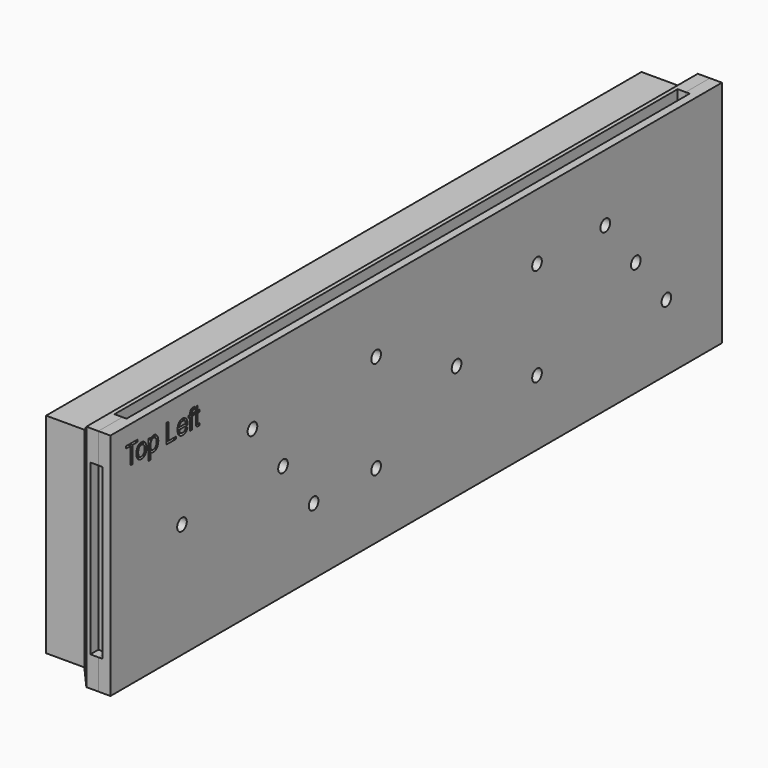
from build123d import *

# Parameters (mm, degrees)
SKETCH_W        = 185
SKETCH_H        = 52
PAD_DEPTH       = 3
SHAPEBINDER_R   = 11.8
SHAPEBINDER_R_2 = 1.55
SHAPEBINDER_W   = 12.9
SHAPEBINDER_H   = 19.4
SHAPEBINDER_R_3 = 1.6
POCKET_DEPTH    = 5
SKETCH002_W     = 190
SKETCH002_H     = 57
SKETCH002_R     = 1.5
PAD001_DEPTH    = 2
PAD002_DEPTH    = 2
POCKET001_DEPTH = 4.5
SKETCH004_W     = 190
SKETCH004_H     = 57
SKETCH004_R     = 11.8
SKETCH004_W_2   = 12.9
SKETCH004_H_2   = 19.4
PAD003_DEPTH    = 13
PAD004_DEPTH    = 15
POCKET002_DEPTH = 1.7
SKETCH005_W     = 195
SKETCH005_H     = 62
SKETCH005_W_2   = 185
SKETCH005_H_2   = 52
POCKET003_DEPTH = 12
CHAMFER_SIZE    = 2.49


with BuildPart() as body:
    # Sketch → Pad (new body)
    with BuildSketch(Plane.YZ):
        with Locations((0, 23)):
            Rectangle(SKETCH_W, SKETCH_H)
    extrude(amount=PAD_DEPTH)

    # ShapeBinder → Pocket (cut)
    with BuildSketch(Plane(origin=(0, 0.410224, 23), x_dir=(0, -1, 0), z_dir=(1, 0, 0))):
        with Locations((-67.839494, 0)):
            Circle(SHAPEBINDER_R)
        with Locations((-58.339494, -12)):
            Circle(SHAPEBINDER_R_2)
        with Locations((-77.339494, 12)):
            Circle(SHAPEBINDER_R_2)
        with BuildLine():
            ThreePointArc((-24.986195, 14.35), (-39.336195, 0), (-24.986195, -14.35))
            Line((-24.986195, -14.35), (0.713805, -14.35))
            ThreePointArc((0.713805, -14.35), (15.063805, 0), (0.713805, 14.35))
            Line((0.713805, 14.35), (-24.986195, 14.35))
        make_face()
        with Locations((41.785392, 0)):
            Circle(SHAPEBINDER_R)
        with Locations((32.285392, 12)):
            Circle(SHAPEBINDER_R_2)
        with Locations((51.285392, -12)):
            Circle(SHAPEBINDER_R_2)
        with Locations((73.189494, 0)):
            Rectangle(SHAPEBINDER_W, SHAPEBINDER_H)
        with Locations((12.863805, -12.2)):
            Circle(SHAPEBINDER_R_3)
        with Locations((12.863805, 12.2)):
            Circle(SHAPEBINDER_R_3)
        with Locations((-37.136195, 12.2)):
            Circle(SHAPEBINDER_R_3)
        with Locations((-37.136195, -12.2)):
            Circle(SHAPEBINDER_R_3)
    extrude(amount=POCKET_DEPTH, mode=Mode.SUBTRACT)


with BuildPart() as drillplacer:
    # Sketch002 → Pad001 (new body)
    with BuildSketch(Plane.YZ):
        with Locations((0, 23)):
            Rectangle(SKETCH002_W, SKETCH002_H)
        with Locations((58.749718, 35)):
            Circle(SKETCH002_R, mode=Mode.SUBTRACT)
        with Locations((68.249718, 23)):
            Circle(SKETCH002_R, mode=Mode.SUBTRACT)
        with Locations((77.749718, 11)):
            Circle(SKETCH002_R, mode=Mode.SUBTRACT)
        with Locations((37.546419, 10.8)):
            Circle(SKETCH002_R, mode=Mode.SUBTRACT)
        with Locations((37.546419, 35.2)):
            Circle(SKETCH002_R, mode=Mode.SUBTRACT)
        with Locations((-12.453581, 35.2)):
            Circle(SKETCH002_R, mode=Mode.SUBTRACT)
        with Locations((-12.453581, 10.8)):
            Circle(SKETCH002_R, mode=Mode.SUBTRACT)
        with Locations((-31.875168, 11)):
            Circle(SKETCH002_R, mode=Mode.SUBTRACT)
        with Locations((-50.875168, 35)):
            Circle(SKETCH002_R, mode=Mode.SUBTRACT)
        with Locations((-41.375168, 23)):
            Circle(SKETCH002_R, mode=Mode.SUBTRACT)
        with Locations((-72.779269, 23)):
            Circle(SKETCH002_R, mode=Mode.SUBTRACT)
        with Locations((12.546419, 23)):
            Circle(SKETCH002_R, mode=Mode.SUBTRACT)
    extrude(amount=PAD001_DEPTH)

    # Sketch003 → Pad002 (join)
    with BuildSketch(Plane.YZ):
        Polygon((95, 51.5), (95, 44), (92.5, 44), (92.5, 49), (87.5, 49), (87.5, 51.5), align=None)
        Polygon((-95, 51.5), (-87.5, 51.5), (-87.5, 49), (-92.5, 49), (-92.5, 44), (-95, 44), align=None)
        Polygon((-95, -5.5), (-95, 2), (-92.5, 2), (-92.5, -3), (-87.5, -3), (-87.5, -5.5), align=None)
        Polygon((95, -5.5), (87.5, -5.5), (87.5, -3), (92.5, -3), (92.5, 2), (95, 2), align=None)
    extrude(amount=-PAD002_DEPTH)

    # ShapeBinder002 → Pocket001 (cut)
    with BuildSketch(Plane(origin=(5.7, -88.427665, 45.650822), x_dir=(0, -1, 0), z_dir=(1, 0, 0))):
        Polygon((0.271762, -1.021492), (0.271762, 3.190822), (-0.271762, 3.190822), (-0.271762, -1.021492), (-1.766454, -1.021492), (-1.766454, -1.565017), (1.766454, -1.565017), (1.766454, -1.021492), align=None)
        with BuildLine():
            add(Edge.make_bspline(
                [(-1.494692, 1.356427), (-1.494692, 0.381905), (-2.010616, -0.08731)],
                knots=[0, 0, 0, 1, 1, 1], degree=2))
            add(Edge.make_bspline(
                [(-1.92569, 2.719484), (-1.494692, 2.246024), (-1.494692, 1.356427)],
                knots=[0, 0, 0, 1, 1, 1], degree=2))
            add(Edge.make_bspline(
                [(-3.059448, 3.190822), (-2.358811, 3.190822), (-1.92569, 2.719484)],
                knots=[0, 0, 0, 1, 1, 1], degree=2))
            add(Edge.make_bspline(
                [(-3.864119, 2.976385), (-3.494692, 3.190822), (-3.059448, 3.190822)],
                knots=[0, 0, 0, 1, 1, 1], degree=2))
            add(Edge.make_bspline(
                [(-4.426752, 2.373412), (-4.233546, 2.761947), (-3.864119, 2.976385)],
                knots=[0, 0, 0, 1, 1, 1], degree=2))
            add(Edge.make_bspline(
                [(-4.619958, 1.307595), (-4.619958, 1.984877), (-4.426752, 2.373412)],
                knots=[0, 0, 0, 1, 1, 1], degree=2))
            add(Edge.make_bspline(
                [(-4.18259, -0.002384), (-4.619958, 0.471077), (-4.619958, 1.307595)],
                knots=[0, 0, 0, 1, 1, 1], degree=2))
            add(Edge.make_bspline(
                [(-3.059448, -0.477968), (-3.747346, -0.477968), (-4.18259, -0.002384)],
                knots=[0, 0, 0, 1, 1, 1], degree=2))
            add(Edge.make_bspline(
                [(-2.010616, -0.08731), (-2.43949, -0.477968), (-3.059448, -0.477968)],
                knots=[0, 0, 0, 1, 1, 1], degree=2))
        make_face()
        with BuildLine():
            add(Edge.make_bspline(
                [(-2.038217, 1.354304), (-2.038217, 2.001862), (-2.326964, 2.32458)],
                knots=[0, 0, 0, 1, 1, 1], degree=2))
            add(Edge.make_bspline(
                [(-2.326964, 0.386151), (-2.038217, 0.706746), (-2.038217, 1.354304)],
                knots=[0, 0, 0, 1, 1, 1], degree=2))
            add(Edge.make_bspline(
                [(-3.059448, 0.065557), (-2.617834, 0.065557), (-2.326964, 0.386151)],
                knots=[0, 0, 0, 1, 1, 1], degree=2))
            add(Edge.make_bspline(
                [(-3.783439, 0.388274), (-3.492569, 0.065557), (-3.059448, 0.065557)],
                knots=[0, 0, 0, 1, 1, 1], degree=2))
            add(Edge.make_bspline(
                [(-4.076433, 1.335196), (-4.076433, 0.710992), (-3.783439, 0.388274)],
                knots=[0, 0, 0, 1, 1, 1], degree=2))
            add(Edge.make_bspline(
                [(-3.785563, 2.32458), (-4.076433, 1.999739), (-4.076433, 1.335196)],
                knots=[0, 0, 0, 1, 1, 1], degree=2))
            add(Edge.make_bspline(
                [(-3.059448, 2.647298), (-3.496815, 2.647298), (-3.785563, 2.32458)],
                knots=[0, 0, 0, 1, 1, 1], degree=2))
            add(Edge.make_bspline(
                [(-2.326964, 2.32458), (-2.617834, 2.647298), (-3.059448, 2.647298)],
                knots=[0, 0, 0, 1, 1, 1], degree=2))
        make_face(mode=Mode.SUBTRACT)
        with BuildLine():
            Line((-5.299363, -0.342087), (-5.299363, 4.549633))
            Line((-5.299363, 4.549633), (-5.842887, 4.549633))
            Line((-5.842887, 4.549633), (-5.842887, 2.698253))
            add(Edge.make_bspline(
                [(-6.229299, 3.050695), (-5.993631, 2.910567), (-5.842887, 2.698253)],
                knots=[0, 0, 0, 1, 1, 1], degree=2))
            add(Edge.make_bspline(
                [(-6.762208, 3.190822), (-6.464968, 3.190822), (-6.229299, 3.050695)],
                knots=[0, 0, 0, 1, 1, 1], degree=2))
            add(Edge.make_bspline(
                [(-7.535032, 2.961523), (-7.167728, 3.190822), (-6.762208, 3.190822)],
                knots=[0, 0, 0, 1, 1, 1], degree=2))
            add(Edge.make_bspline(
                [(-8.095541, 2.301225), (-7.902335, 2.732223), (-7.535032, 2.961523)],
                knots=[0, 0, 0, 1, 1, 1], degree=2))
            add(Edge.make_bspline(
                [(-8.288747, 1.330949), (-8.288747, 1.868104), (-8.095541, 2.301225)],
                knots=[0, 0, 0, 1, 1, 1], degree=2))
            add(Edge.make_bspline(
                [(-8.116773, 0.407383), (-8.288747, 0.827765), (-8.288747, 1.330949)],
                knots=[0, 0, 0, 1, 1, 1], degree=2))
            add(Edge.make_bspline(
                [(-7.611465, -0.246545), (-7.946921, -0.015123), (-8.116773, 0.407383)],
                knots=[0, 0, 0, 1, 1, 1], degree=2))
            add(Edge.make_bspline(
                [(-6.836518, -0.477968), (-7.276008, -0.477968), (-7.611465, -0.246545)],
                knots=[0, 0, 0, 1, 1, 1], degree=2))
            add(Edge.make_bspline(
                [(-6.265393, -0.325102), (-6.501062, -0.477968), (-6.836518, -0.477968)],
                knots=[0, 0, 0, 1, 1, 1], degree=2))
            add(Edge.make_bspline(
                [(-5.842887, 0.131374), (-6.029724, -0.174358), (-6.265393, -0.325102)],
                knots=[0, 0, 0, 1, 1, 1], degree=2))
            Line((-5.842887, 0.131374), (-5.842887, -0.342087))
            Line((-5.842887, -0.342087), (-5.299363, -0.342087))
        make_face()
        with BuildLine():
            add(Edge.make_bspline(
                [(-5.842887, 1.386151), (-5.842887, 2.031586), (-6.116773, 2.339442)],
                knots=[0, 0, 0, 1, 1, 1], degree=2))
            add(Edge.make_bspline(
                [(-6.135881, 0.403136), (-5.842887, 0.740716), (-5.842887, 1.386151)],
                knots=[0, 0, 0, 1, 1, 1], degree=2))
            add(Edge.make_bspline(
                [(-6.808917, 0.065557), (-6.428875, 0.065557), (-6.135881, 0.403136)],
                knots=[0, 0, 0, 1, 1, 1], degree=2))
            add(Edge.make_bspline(
                [(-7.469214, 0.384028), (-7.193206, 0.065557), (-6.808917, 0.065557)],
                knots=[0, 0, 0, 1, 1, 1], degree=2))
            add(Edge.make_bspline(
                [(-7.745223, 1.339442), (-7.745223, 0.700376), (-7.469214, 0.384028)],
                knots=[0, 0, 0, 1, 1, 1], degree=2))
            add(Edge.make_bspline(
                [(-7.462845, 2.328826), (-7.745223, 2.008232), (-7.745223, 1.339442)],
                knots=[0, 0, 0, 1, 1, 1], degree=2))
            add(Edge.make_bspline(
                [(-6.783439, 2.647298), (-7.180467, 2.647298), (-7.462845, 2.328826)],
                knots=[0, 0, 0, 1, 1, 1], degree=2))
            add(Edge.make_bspline(
                [(-6.116773, 2.339442), (-6.392781, 2.647298), (-6.783439, 2.647298)],
                knots=[0, 0, 0, 1, 1, 1], degree=2))
        make_face(mode=Mode.SUBTRACT)
        Polygon((-10.870488, -1.565017), (-10.870488, 3.190822), (-13.723992, 3.190822), (-13.723992, 2.647298), (-11.414013, 2.647298), (-11.414013, -1.565017), align=None)
        with BuildLine():
            Line((-17.375796, 2.103773), (-16.842887, 1.967892))
            add(Edge.make_bspline(
                [(-16.467091, 2.485939), (-16.704883, 2.322457), (-16.842887, 1.967892)],
                knots=[0, 0, 0, 1, 1, 1], degree=2))
            add(Edge.make_bspline(
                [(-15.895966, 2.647298), (-16.231423, 2.647298), (-16.467091, 2.485939)],
                knots=[0, 0, 0, 1, 1, 1], degree=2))
            add(Edge.make_bspline(
                [(-15.144374, 2.367043), (-15.44586, 2.647298), (-15.895966, 2.647298)],
                knots=[0, 0, 0, 1, 1, 1], degree=2))
            add(Edge.make_bspline(
                [(-14.81104, 1.560249), (-14.845011, 2.086788), (-15.144374, 2.367043)],
                knots=[0, 0, 0, 1, 1, 1], degree=2))
            Line((-14.81104, 1.560249), (-17.390658, 1.560249))
            add(Edge.make_bspline(
                [(-17.392781, 1.396767), (-17.392781, 1.451969), (-17.390658, 1.560249)],
                knots=[0, 0, 0, 1, 1, 1], degree=2))
            add(Edge.make_bspline(
                [(-16.961783, 0.014601), (-17.392781, 0.505047), (-17.392781, 1.396767)],
                knots=[0, 0, 0, 1, 1, 1], degree=2))
            add(Edge.make_bspline(
                [(-15.85138, -0.477968), (-16.530786, -0.477968), (-16.961783, 0.014601)],
                knots=[0, 0, 0, 1, 1, 1], degree=2))
            add(Edge.make_bspline(
                [(-14.707006, 0.012478), (-15.14862, -0.477968), (-15.85138, -0.477968)],
                knots=[0, 0, 0, 1, 1, 1], degree=2))
            add(Edge.make_bspline(
                [(-14.267516, 1.386151), (-14.267516, 0.500801), (-14.707006, 0.012478)],
                knots=[0, 0, 0, 1, 1, 1], degree=2))
            add(Edge.make_bspline(
                [(-14.70276, 2.717361), (-14.267516, 2.241777), (-14.267516, 1.386151)],
                knots=[0, 0, 0, 1, 1, 1], degree=2))
            add(Edge.make_bspline(
                [(-15.883227, 3.190822), (-15.140127, 3.190822), (-14.70276, 2.717361)],
                knots=[0, 0, 0, 1, 1, 1], degree=2))
            add(Edge.make_bspline(
                [(-16.855626, 2.906321), (-16.475584, 3.190822), (-15.883227, 3.190822)],
                knots=[0, 0, 0, 1, 1, 1], degree=2))
            add(Edge.make_bspline(
                [(-17.375796, 2.103773), (-17.235669, 2.619697), (-16.855626, 2.906321)],
                knots=[0, 0, 0, 1, 1, 1], degree=2))
        make_face()
        with BuildLine():
            Line((-16.849257, 1.016724), (-14.81104, 1.016724))
            add(Edge.make_bspline(
                [(-15.131635, 0.32458), (-14.842887, 0.583603), (-14.81104, 1.016724)],
                knots=[0, 0, 0, 1, 1, 1], degree=2))
            add(Edge.make_bspline(
                [(-15.849257, 0.065557), (-15.422505, 0.065557), (-15.131635, 0.32458)],
                knots=[0, 0, 0, 1, 1, 1], degree=2))
            add(Edge.make_bspline(
                [(-16.615711, 0.390397), (-16.320594, 0.065557), (-15.849257, 0.065557)],
                knots=[0, 0, 0, 1, 1, 1], degree=2))
            add(Edge.make_bspline(
                [(-16.849257, 1.016724), (-16.808917, 0.598465), (-16.615711, 0.390397)],
                knots=[0, 0, 0, 1, 1, 1], degree=2))
        make_face(mode=Mode.SUBTRACT)
        with BuildLine():
            Line((-18.208068, 0.201438), (-18.208068, 3.190822))
            Line((-18.208068, 3.190822), (-18.751592, 3.190822))
            Line((-18.751592, 3.190822), (-18.751592, 0.201438))
            Line((-18.751592, 0.201438), (-19.430998, 0.201438))
            Line((-19.430998, 0.201438), (-19.430998, -0.342087))
            Line((-19.430998, -0.342087), (-18.751592, -0.342087))
            Line((-18.751592, -0.342087), (-18.751592, -0.594741))
            add(Edge.make_bspline(
                [(-18.859873, -0.930197), (-18.751592, -0.841025), (-18.751592, -0.594741)],
                knots=[0, 0, 0, 1, 1, 1], degree=2))
            add(Edge.make_bspline(
                [(-19.229299, -1.021492), (-18.968153, -1.021492), (-18.859873, -0.930197)],
                knots=[0, 0, 0, 1, 1, 1], degree=2))
            add(Edge.make_bspline(
                [(-19.566879, -0.996014), (-19.388535, -1.021492), (-19.229299, -1.021492)],
                knots=[0, 0, 0, 1, 1, 1], degree=2))
            Line((-19.566879, -0.996014), (-19.651805, -1.505569))
            add(Edge.make_bspline(
                [(-19.116773, -1.565017), (-19.358811, -1.565017), (-19.651805, -1.505569)],
                knots=[0, 0, 0, 1, 1, 1], degree=2))
            add(Edge.make_bspline(
                [(-18.543524, -1.439751), (-18.7431, -1.565017), (-19.116773, -1.565017)],
                knots=[0, 0, 0, 1, 1, 1], degree=2))
            add(Edge.make_bspline(
                [(-18.265393, -1.117034), (-18.343949, -1.316609), (-18.543524, -1.439751)],
                knots=[0, 0, 0, 1, 1, 1], degree=2))
            add(Edge.make_bspline(
                [(-18.208068, -0.664804), (-18.208068, -0.968414), (-18.265393, -1.117034)],
                knots=[0, 0, 0, 1, 1, 1], degree=2))
            Line((-18.208068, -0.664804), (-18.208068, -0.342087))
            Line((-18.208068, -0.342087), (-17.664544, -0.342087))
            Line((-17.664544, -0.342087), (-17.664544, 0.201438))
            Line((-17.664544, 0.201438), (-18.208068, 0.201438))
        make_face()
        with BuildLine():
            Line((-21.197452, 3.139867), (-21.061571, 2.632436))
            add(Edge.make_bspline(
                [(-20.823779, 2.647298), (-20.915074, 2.647298), (-21.061571, 2.632436)],
                knots=[0, 0, 0, 1, 1, 1], degree=2))
            add(Edge.make_bspline(
                [(-20.639066, 2.606958), (-20.704883, 2.647298), (-20.823779, 2.647298)],
                knots=[0, 0, 0, 1, 1, 1], degree=2))
            add(Edge.make_bspline(
                [(-20.545648, 2.494431), (-20.575372, 2.564495), (-20.639066, 2.606958)],
                knots=[0, 0, 0, 1, 1, 1], degree=2))
            add(Edge.make_bspline(
                [(-20.518047, 2.178083), (-20.518047, 2.424368), (-20.545648, 2.494431)],
                knots=[0, 0, 0, 1, 1, 1], degree=2))
            Line((-20.518047, 2.178083), (-20.518047, 0.201438))
            Line((-20.518047, 0.201438), (-21.061571, 0.201438))
            Line((-21.061571, 0.201438), (-21.061571, -0.342087))
            Line((-21.061571, -0.342087), (-20.518047, -0.342087))
            Line((-20.518047, -0.342087), (-20.518047, -1.524677))
            Line((-20.518047, -1.524677), (-19.974522, -1.180728))
            Line((-19.974522, -1.180728), (-19.974522, -0.342087))
            Line((-19.974522, -0.342087), (-19.566879, -0.342087))
            Line((-19.566879, -0.342087), (-19.566879, 0.201438))
            Line((-19.566879, 0.201438), (-19.974522, 0.201438))
            Line((-19.974522, 0.201438), (-19.974522, 2.152606))
            add(Edge.make_bspline(
                [(-20.044586, 2.832011), (-19.974522, 2.670652), (-19.974522, 2.152606)],
                knots=[0, 0, 0, 1, 1, 1], degree=2))
            add(Edge.make_bspline(
                [(-20.284501, 3.093158), (-20.11465, 2.99337), (-20.044586, 2.832011)],
                knots=[0, 0, 0, 1, 1, 1], degree=2))
            add(Edge.make_bspline(
                [(-20.766454, 3.190822), (-20.456476, 3.190822), (-20.284501, 3.093158)],
                knots=[0, 0, 0, 1, 1, 1], degree=2))
            add(Edge.make_bspline(
                [(-21.197452, 3.139867), (-20.957537, 3.190822), (-20.766454, 3.190822)],
                knots=[0, 0, 0, 1, 1, 1], degree=2))
        make_face()
    extrude(amount=-POCKET001_DEPTH, mode=Mode.SUBTRACT)


with BuildPart() as drillplacer_1:
    # Body001 placement: moved
    add(drillplacer.part.moved(Location((3, 0, 0))))


with BuildPart() as routerguide:
    # Sketch004 → Pad003 (new body)
    with BuildSketch(Plane.YZ):
        with Locations((0, 23)):
            Rectangle(SKETCH004_W, SKETCH004_H)
        with Locations((68.249718, 23)):
            Circle(SKETCH004_R, mode=Mode.SUBTRACT)
        with Locations((-41.375168, 23)):
            Circle(SKETCH004_R, mode=Mode.SUBTRACT)
        with BuildLine():
            ThreePointArc((-0.303581, 37.35), (-14.653581, 23), (-0.303581, 8.65))
            Line((-0.303581, 8.65), (25.396419, 8.65))
            ThreePointArc((25.396419, 8.65), (39.746419, 23), (25.396419, 37.35))
            Line((-0.303581, 37.35), (25.396419, 37.35))
        make_face(mode=Mode.SUBTRACT)
        with Locations((-72.779269, 23)):
            Rectangle(SKETCH004_W_2, SKETCH004_H_2, mode=Mode.SUBTRACT)
    extrude(amount=PAD003_DEPTH)

    # ShapeBinder005 → Pad004 (join)
    with BuildSketch(Plane(origin=(0, 0, 23), x_dir=(0, -1, 0), z_dir=(1, 0, 0))):
        Polygon((-95, -28.5), (-95, -21), (-92.5, -21), (-92.5, -26), (-87.5, -26), (-87.5, -28.5), align=None)
        Polygon((95, -28.5), (87.5, -28.5), (87.5, -26), (92.5, -26), (92.5, -21), (95, -21), align=None)
        Polygon((95, 28.5), (95, 21), (92.5, 21), (92.5, 26), (87.5, 26), (87.5, 28.5), align=None)
        Polygon((-95, 28.5), (-87.5, 28.5), (-87.5, 26), (-92.5, 26), (-92.5, 21), (-95, 21), align=None)
    extrude(amount=PAD004_DEPTH)

    # Binder → Pocket002 (cut)
    with BuildSketch(Plane(origin=(13.7, -88.427665, 45.650822), x_dir=(0, -1, 0), z_dir=(1, 0, 0))):
        Polygon((0.271762, -1.021492), (0.271762, 3.190822), (-0.271762, 3.190822), (-0.271762, -1.021492), (-1.766454, -1.021492), (-1.766454, -1.565017), (1.766454, -1.565017), (1.766454, -1.021492), align=None)
        with BuildLine():
            add(Edge.make_bspline(
                [(-1.494692, 1.356427), (-1.494692, 0.381905), (-2.010616, -0.08731)],
                knots=[0, 0, 0, 1, 1, 1], degree=2))
            add(Edge.make_bspline(
                [(-1.92569, 2.719484), (-1.494692, 2.246024), (-1.494692, 1.356427)],
                knots=[0, 0, 0, 1, 1, 1], degree=2))
            add(Edge.make_bspline(
                [(-3.059448, 3.190822), (-2.358811, 3.190822), (-1.92569, 2.719484)],
                knots=[0, 0, 0, 1, 1, 1], degree=2))
            add(Edge.make_bspline(
                [(-3.864119, 2.976385), (-3.494692, 3.190822), (-3.059448, 3.190822)],
                knots=[0, 0, 0, 1, 1, 1], degree=2))
            add(Edge.make_bspline(
                [(-4.426752, 2.373412), (-4.233546, 2.761947), (-3.864119, 2.976385)],
                knots=[0, 0, 0, 1, 1, 1], degree=2))
            add(Edge.make_bspline(
                [(-4.619958, 1.307595), (-4.619958, 1.984877), (-4.426752, 2.373412)],
                knots=[0, 0, 0, 1, 1, 1], degree=2))
            add(Edge.make_bspline(
                [(-4.18259, -0.002384), (-4.619958, 0.471077), (-4.619958, 1.307595)],
                knots=[0, 0, 0, 1, 1, 1], degree=2))
            add(Edge.make_bspline(
                [(-3.059448, -0.477968), (-3.747346, -0.477968), (-4.18259, -0.002384)],
                knots=[0, 0, 0, 1, 1, 1], degree=2))
            add(Edge.make_bspline(
                [(-2.010616, -0.08731), (-2.43949, -0.477968), (-3.059448, -0.477968)],
                knots=[0, 0, 0, 1, 1, 1], degree=2))
        make_face()
        with BuildLine():
            add(Edge.make_bspline(
                [(-2.038217, 1.354304), (-2.038217, 2.001862), (-2.326964, 2.32458)],
                knots=[0, 0, 0, 1, 1, 1], degree=2))
            add(Edge.make_bspline(
                [(-2.326964, 0.386151), (-2.038217, 0.706746), (-2.038217, 1.354304)],
                knots=[0, 0, 0, 1, 1, 1], degree=2))
            add(Edge.make_bspline(
                [(-3.059448, 0.065557), (-2.617834, 0.065557), (-2.326964, 0.386151)],
                knots=[0, 0, 0, 1, 1, 1], degree=2))
            add(Edge.make_bspline(
                [(-3.783439, 0.388274), (-3.492569, 0.065557), (-3.059448, 0.065557)],
                knots=[0, 0, 0, 1, 1, 1], degree=2))
            add(Edge.make_bspline(
                [(-4.076433, 1.335196), (-4.076433, 0.710992), (-3.783439, 0.388274)],
                knots=[0, 0, 0, 1, 1, 1], degree=2))
            add(Edge.make_bspline(
                [(-3.785563, 2.32458), (-4.076433, 1.999739), (-4.076433, 1.335196)],
                knots=[0, 0, 0, 1, 1, 1], degree=2))
            add(Edge.make_bspline(
                [(-3.059448, 2.647298), (-3.496815, 2.647298), (-3.785563, 2.32458)],
                knots=[0, 0, 0, 1, 1, 1], degree=2))
            add(Edge.make_bspline(
                [(-2.326964, 2.32458), (-2.617834, 2.647298), (-3.059448, 2.647298)],
                knots=[0, 0, 0, 1, 1, 1], degree=2))
        make_face(mode=Mode.SUBTRACT)
        with BuildLine():
            Line((-5.299363, -0.342087), (-5.299363, 4.549633))
            Line((-5.299363, 4.549633), (-5.842887, 4.549633))
            Line((-5.842887, 4.549633), (-5.842887, 2.698253))
            add(Edge.make_bspline(
                [(-6.229299, 3.050695), (-5.993631, 2.910567), (-5.842887, 2.698253)],
                knots=[0, 0, 0, 1, 1, 1], degree=2))
            add(Edge.make_bspline(
                [(-6.762208, 3.190822), (-6.464968, 3.190822), (-6.229299, 3.050695)],
                knots=[0, 0, 0, 1, 1, 1], degree=2))
            add(Edge.make_bspline(
                [(-7.535032, 2.961523), (-7.167728, 3.190822), (-6.762208, 3.190822)],
                knots=[0, 0, 0, 1, 1, 1], degree=2))
            add(Edge.make_bspline(
                [(-8.095541, 2.301225), (-7.902335, 2.732223), (-7.535032, 2.961523)],
                knots=[0, 0, 0, 1, 1, 1], degree=2))
            add(Edge.make_bspline(
                [(-8.288747, 1.330949), (-8.288747, 1.868104), (-8.095541, 2.301225)],
                knots=[0, 0, 0, 1, 1, 1], degree=2))
            add(Edge.make_bspline(
                [(-8.116773, 0.407383), (-8.288747, 0.827765), (-8.288747, 1.330949)],
                knots=[0, 0, 0, 1, 1, 1], degree=2))
            add(Edge.make_bspline(
                [(-7.611465, -0.246545), (-7.946921, -0.015123), (-8.116773, 0.407383)],
                knots=[0, 0, 0, 1, 1, 1], degree=2))
            add(Edge.make_bspline(
                [(-6.836518, -0.477968), (-7.276008, -0.477968), (-7.611465, -0.246545)],
                knots=[0, 0, 0, 1, 1, 1], degree=2))
            add(Edge.make_bspline(
                [(-6.265393, -0.325102), (-6.501062, -0.477968), (-6.836518, -0.477968)],
                knots=[0, 0, 0, 1, 1, 1], degree=2))
            add(Edge.make_bspline(
                [(-5.842887, 0.131374), (-6.029724, -0.174358), (-6.265393, -0.325102)],
                knots=[0, 0, 0, 1, 1, 1], degree=2))
            Line((-5.842887, 0.131374), (-5.842887, -0.342087))
            Line((-5.842887, -0.342087), (-5.299363, -0.342087))
        make_face()
        with BuildLine():
            add(Edge.make_bspline(
                [(-5.842887, 1.386151), (-5.842887, 2.031586), (-6.116773, 2.339442)],
                knots=[0, 0, 0, 1, 1, 1], degree=2))
            add(Edge.make_bspline(
                [(-6.135881, 0.403136), (-5.842887, 0.740716), (-5.842887, 1.386151)],
                knots=[0, 0, 0, 1, 1, 1], degree=2))
            add(Edge.make_bspline(
                [(-6.808917, 0.065557), (-6.428875, 0.065557), (-6.135881, 0.403136)],
                knots=[0, 0, 0, 1, 1, 1], degree=2))
            add(Edge.make_bspline(
                [(-7.469214, 0.384028), (-7.193206, 0.065557), (-6.808917, 0.065557)],
                knots=[0, 0, 0, 1, 1, 1], degree=2))
            add(Edge.make_bspline(
                [(-7.745223, 1.339442), (-7.745223, 0.700376), (-7.469214, 0.384028)],
                knots=[0, 0, 0, 1, 1, 1], degree=2))
            add(Edge.make_bspline(
                [(-7.462845, 2.328826), (-7.745223, 2.008232), (-7.745223, 1.339442)],
                knots=[0, 0, 0, 1, 1, 1], degree=2))
            add(Edge.make_bspline(
                [(-6.783439, 2.647298), (-7.180467, 2.647298), (-7.462845, 2.328826)],
                knots=[0, 0, 0, 1, 1, 1], degree=2))
            add(Edge.make_bspline(
                [(-6.116773, 2.339442), (-6.392781, 2.647298), (-6.783439, 2.647298)],
                knots=[0, 0, 0, 1, 1, 1], degree=2))
        make_face(mode=Mode.SUBTRACT)
        Polygon((-10.870488, -1.565017), (-10.870488, 3.190822), (-13.723992, 3.190822), (-13.723992, 2.647298), (-11.414013, 2.647298), (-11.414013, -1.565017), align=None)
        with BuildLine():
            Line((-17.375796, 2.103773), (-16.842887, 1.967892))
            add(Edge.make_bspline(
                [(-16.467091, 2.485939), (-16.704883, 2.322457), (-16.842887, 1.967892)],
                knots=[0, 0, 0, 1, 1, 1], degree=2))
            add(Edge.make_bspline(
                [(-15.895966, 2.647298), (-16.231423, 2.647298), (-16.467091, 2.485939)],
                knots=[0, 0, 0, 1, 1, 1], degree=2))
            add(Edge.make_bspline(
                [(-15.144374, 2.367043), (-15.44586, 2.647298), (-15.895966, 2.647298)],
                knots=[0, 0, 0, 1, 1, 1], degree=2))
            add(Edge.make_bspline(
                [(-14.81104, 1.560249), (-14.845011, 2.086788), (-15.144374, 2.367043)],
                knots=[0, 0, 0, 1, 1, 1], degree=2))
            Line((-14.81104, 1.560249), (-17.390658, 1.560249))
            add(Edge.make_bspline(
                [(-17.392781, 1.396767), (-17.392781, 1.451969), (-17.390658, 1.560249)],
                knots=[0, 0, 0, 1, 1, 1], degree=2))
            add(Edge.make_bspline(
                [(-16.961783, 0.014601), (-17.392781, 0.505047), (-17.392781, 1.396767)],
                knots=[0, 0, 0, 1, 1, 1], degree=2))
            add(Edge.make_bspline(
                [(-15.85138, -0.477968), (-16.530786, -0.477968), (-16.961783, 0.014601)],
                knots=[0, 0, 0, 1, 1, 1], degree=2))
            add(Edge.make_bspline(
                [(-14.707006, 0.012478), (-15.14862, -0.477968), (-15.85138, -0.477968)],
                knots=[0, 0, 0, 1, 1, 1], degree=2))
            add(Edge.make_bspline(
                [(-14.267516, 1.386151), (-14.267516, 0.500801), (-14.707006, 0.012478)],
                knots=[0, 0, 0, 1, 1, 1], degree=2))
            add(Edge.make_bspline(
                [(-14.70276, 2.717361), (-14.267516, 2.241777), (-14.267516, 1.386151)],
                knots=[0, 0, 0, 1, 1, 1], degree=2))
            add(Edge.make_bspline(
                [(-15.883227, 3.190822), (-15.140127, 3.190822), (-14.70276, 2.717361)],
                knots=[0, 0, 0, 1, 1, 1], degree=2))
            add(Edge.make_bspline(
                [(-16.855626, 2.906321), (-16.475584, 3.190822), (-15.883227, 3.190822)],
                knots=[0, 0, 0, 1, 1, 1], degree=2))
            add(Edge.make_bspline(
                [(-17.375796, 2.103773), (-17.235669, 2.619697), (-16.855626, 2.906321)],
                knots=[0, 0, 0, 1, 1, 1], degree=2))
        make_face()
        with BuildLine():
            Line((-16.849257, 1.016724), (-14.81104, 1.016724))
            add(Edge.make_bspline(
                [(-15.131635, 0.32458), (-14.842887, 0.583603), (-14.81104, 1.016724)],
                knots=[0, 0, 0, 1, 1, 1], degree=2))
            add(Edge.make_bspline(
                [(-15.849257, 0.065557), (-15.422505, 0.065557), (-15.131635, 0.32458)],
                knots=[0, 0, 0, 1, 1, 1], degree=2))
            add(Edge.make_bspline(
                [(-16.615711, 0.390397), (-16.320594, 0.065557), (-15.849257, 0.065557)],
                knots=[0, 0, 0, 1, 1, 1], degree=2))
            add(Edge.make_bspline(
                [(-16.849257, 1.016724), (-16.808917, 0.598465), (-16.615711, 0.390397)],
                knots=[0, 0, 0, 1, 1, 1], degree=2))
        make_face(mode=Mode.SUBTRACT)
        with BuildLine():
            Line((-18.208068, 0.201438), (-18.208068, 3.190822))
            Line((-18.208068, 3.190822), (-18.751592, 3.190822))
            Line((-18.751592, 3.190822), (-18.751592, 0.201438))
            Line((-18.751592, 0.201438), (-19.430998, 0.201438))
            Line((-19.430998, 0.201438), (-19.430998, -0.342087))
            Line((-19.430998, -0.342087), (-18.751592, -0.342087))
            Line((-18.751592, -0.342087), (-18.751592, -0.594741))
            add(Edge.make_bspline(
                [(-18.859873, -0.930197), (-18.751592, -0.841025), (-18.751592, -0.594741)],
                knots=[0, 0, 0, 1, 1, 1], degree=2))
            add(Edge.make_bspline(
                [(-19.229299, -1.021492), (-18.968153, -1.021492), (-18.859873, -0.930197)],
                knots=[0, 0, 0, 1, 1, 1], degree=2))
            add(Edge.make_bspline(
                [(-19.566879, -0.996014), (-19.388535, -1.021492), (-19.229299, -1.021492)],
                knots=[0, 0, 0, 1, 1, 1], degree=2))
            Line((-19.566879, -0.996014), (-19.651805, -1.505569))
            add(Edge.make_bspline(
                [(-19.116773, -1.565017), (-19.358811, -1.565017), (-19.651805, -1.505569)],
                knots=[0, 0, 0, 1, 1, 1], degree=2))
            add(Edge.make_bspline(
                [(-18.543524, -1.439751), (-18.7431, -1.565017), (-19.116773, -1.565017)],
                knots=[0, 0, 0, 1, 1, 1], degree=2))
            add(Edge.make_bspline(
                [(-18.265393, -1.117034), (-18.343949, -1.316609), (-18.543524, -1.439751)],
                knots=[0, 0, 0, 1, 1, 1], degree=2))
            add(Edge.make_bspline(
                [(-18.208068, -0.664804), (-18.208068, -0.968414), (-18.265393, -1.117034)],
                knots=[0, 0, 0, 1, 1, 1], degree=2))
            Line((-18.208068, -0.664804), (-18.208068, -0.342087))
            Line((-18.208068, -0.342087), (-17.664544, -0.342087))
            Line((-17.664544, -0.342087), (-17.664544, 0.201438))
            Line((-17.664544, 0.201438), (-18.208068, 0.201438))
        make_face()
        with BuildLine():
            Line((-21.197452, 3.139867), (-21.061571, 2.632436))
            add(Edge.make_bspline(
                [(-20.823779, 2.647298), (-20.915074, 2.647298), (-21.061571, 2.632436)],
                knots=[0, 0, 0, 1, 1, 1], degree=2))
            add(Edge.make_bspline(
                [(-20.639066, 2.606958), (-20.704883, 2.647298), (-20.823779, 2.647298)],
                knots=[0, 0, 0, 1, 1, 1], degree=2))
            add(Edge.make_bspline(
                [(-20.545648, 2.494431), (-20.575372, 2.564495), (-20.639066, 2.606958)],
                knots=[0, 0, 0, 1, 1, 1], degree=2))
            add(Edge.make_bspline(
                [(-20.518047, 2.178083), (-20.518047, 2.424368), (-20.545648, 2.494431)],
                knots=[0, 0, 0, 1, 1, 1], degree=2))
            Line((-20.518047, 2.178083), (-20.518047, 0.201438))
            Line((-20.518047, 0.201438), (-21.061571, 0.201438))
            Line((-21.061571, 0.201438), (-21.061571, -0.342087))
            Line((-21.061571, -0.342087), (-20.518047, -0.342087))
            Line((-20.518047, -0.342087), (-20.518047, -1.524677))
            Line((-20.518047, -1.524677), (-19.974522, -1.180728))
            Line((-19.974522, -1.180728), (-19.974522, -0.342087))
            Line((-19.974522, -0.342087), (-19.566879, -0.342087))
            Line((-19.566879, -0.342087), (-19.566879, 0.201438))
            Line((-19.566879, 0.201438), (-19.974522, 0.201438))
            Line((-19.974522, 0.201438), (-19.974522, 2.152606))
            add(Edge.make_bspline(
                [(-20.044586, 2.832011), (-19.974522, 2.670652), (-19.974522, 2.152606)],
                knots=[0, 0, 0, 1, 1, 1], degree=2))
            add(Edge.make_bspline(
                [(-20.284501, 3.093158), (-20.11465, 2.99337), (-20.044586, 2.832011)],
                knots=[0, 0, 0, 1, 1, 1], degree=2))
            add(Edge.make_bspline(
                [(-20.766454, 3.190822), (-20.456476, 3.190822), (-20.284501, 3.093158)],
                knots=[0, 0, 0, 1, 1, 1], degree=2))
            add(Edge.make_bspline(
                [(-21.197452, 3.139867), (-20.957537, 3.190822), (-20.766454, 3.190822)],
                knots=[0, 0, 0, 1, 1, 1], degree=2))
        make_face()
    extrude(amount=-POCKET002_DEPTH, mode=Mode.SUBTRACT)

    # Sketch005 → Pocket003 (cut)
    with BuildSketch(Plane.YZ):
        with Locations((0, 23)):
            Rectangle(SKETCH005_W, SKETCH005_H)
        with Locations((0, 23)):
            Rectangle(SKETCH005_W_2, SKETCH005_H_2, mode=Mode.SUBTRACT)
    extrude(amount=POCKET003_DEPTH, mode=Mode.SUBTRACT)

    # Chamfer
    chamfer_edges = [routerguide.edges().sort_by_distance(p)[0] for p in [
        (12, 0, -3),
        (12, 92.5, 23),
        (12, 0, 49),
        (12, -92.5, 23),
    ]]
    chamfer(chamfer_edges, length=CHAMFER_SIZE)


with BuildPart() as routerguide_1:
    # Body002 placement: moved
    add(routerguide.part.moved(Location((-13, 0, 0))))


solid = Compound([body.part, drillplacer_1.part, routerguide_1.part])
